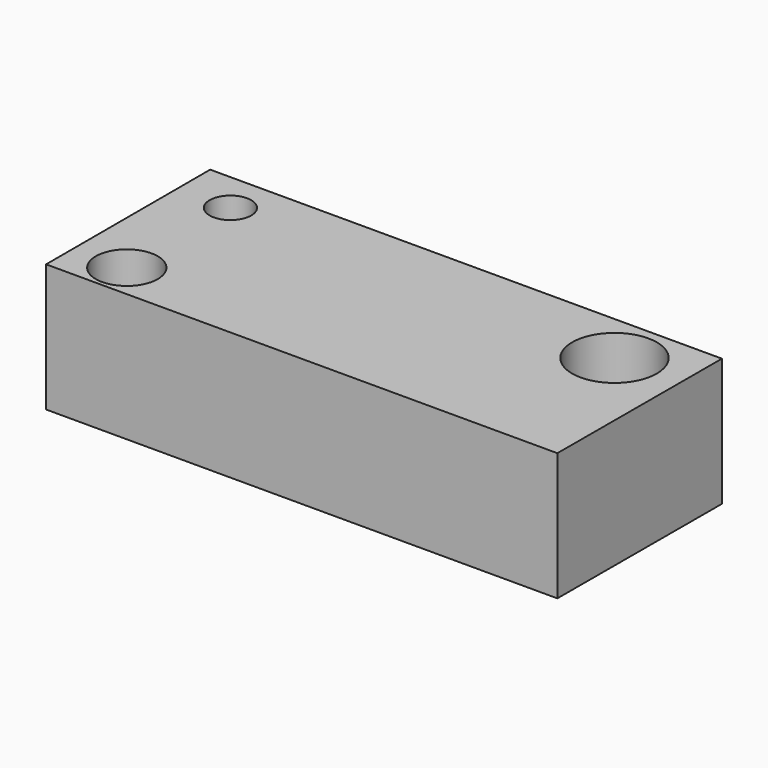
from build123d import *

# Parameters (mm, degrees)
F0_R     = 6.060256
F0_R_2   = 4.067875
F0_R_3   = 8.281689
F1_DEPTH = 25


with BuildPart() as f1:
    # F0 (on Top) → F1 (new body)
    with BuildSketch(Plane.XY):
        Polygon((-89.38891, 31.635445), (-89.38891, -8.483103), (10.61109, -8.483103), (10.703277, 31.635445), align=None)
        with Locations((-79.075597, -1.644656)):
            Circle(F0_R, mode=Mode.SUBTRACT)
        with Locations((-79.075597, 23.702396)):
            Circle(F0_R_2, mode=Mode.SUBTRACT)
        with Locations((-2.260483, 21.574017)):
            Circle(F0_R_3, mode=Mode.SUBTRACT)
    extrude(amount=F1_DEPTH)


solid = f1.part
